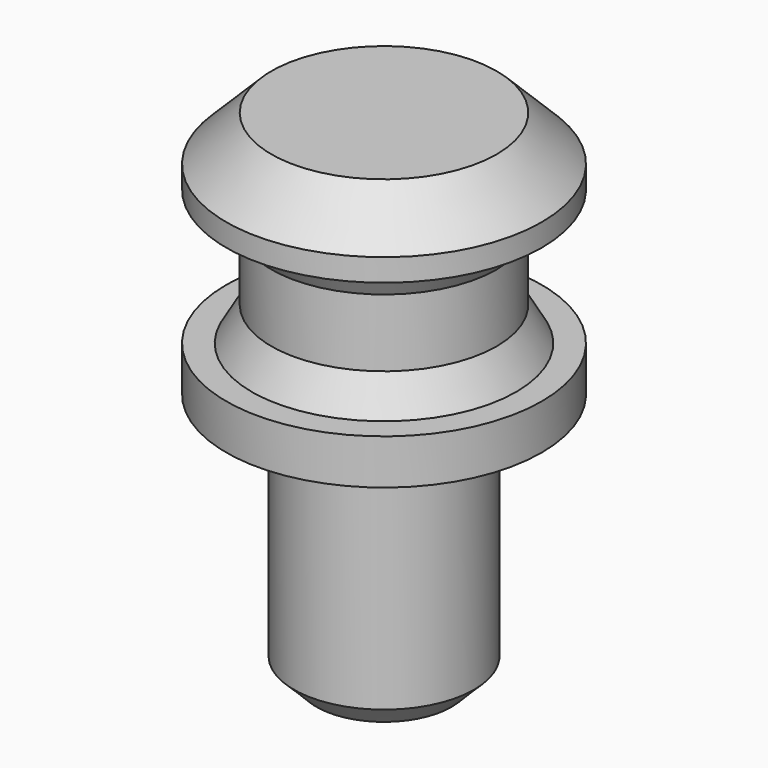
from build123d import *

# Parameters (mm, degrees)
F2_SIZE = 2
F3_SIZE = 1


with BuildPart() as f1:
    # F0 (on Front) → F1 (revolve)
    with BuildSketch(Plane.XZ):
        Polygon((0, 11), (0, -11.235857), (4, -11.235857), (4, 0), (7, 0), (7, 2), (5.866025, 2), (5, 3.5), (5, 6.5), (5.866025, 8), (7, 8), (7, 11), align=None)
    revolve(axis=Axis((0, 0, -0.117929), (0, 0, -1)))

    # F2
    f2_edges = [f1.edges().sort_by_distance(p)[0] for p in [
        (-7, 0, 11),
    ]]
    chamfer(f2_edges, length=F2_SIZE)

    # F3
    f3_edges = [f1.edges().sort_by_distance(p)[0] for p in [
        (-4, 0, -11.235857),
    ]]
    chamfer(f3_edges, length=F3_SIZE)


solid = f1.part
